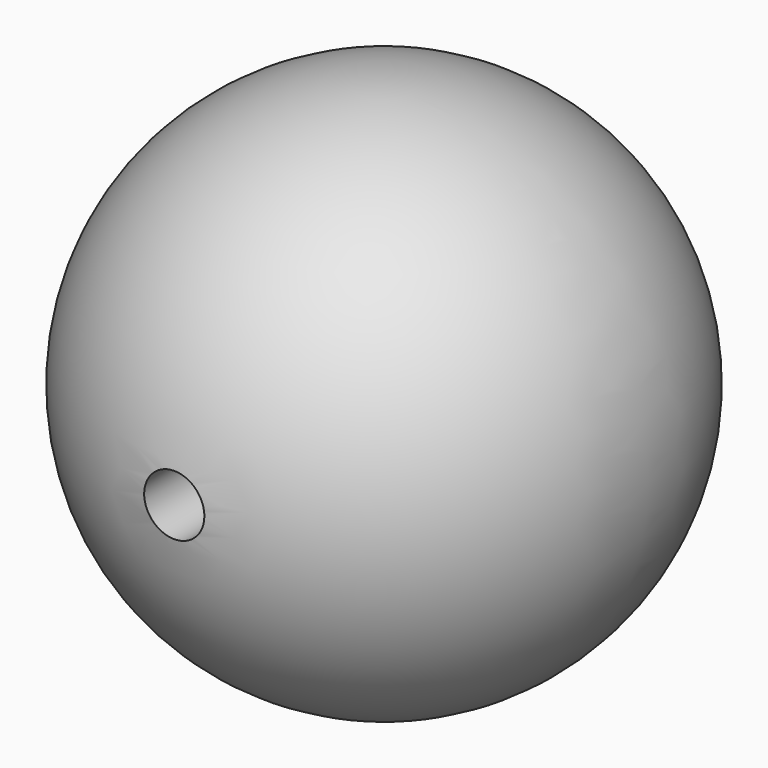
from build123d import *

# Parameters (mm, degrees)
F2_D     = 10
F2_DEPTH = 100
F2_TIP   = 3.0043030951


with BuildPart() as f1:
    # F0 (on Front) → F1 (revolve)
    with BuildSketch(Plane.XZ):
        with BuildLine():
            Line((0, 43.8479781151), (0, -43.8479781151))
            ThreePointArc((0, -43.8479781151), (43.8479781151, 0), (0, 43.8479781151))
        make_face()
    revolve(axis=Axis((0, 0, 0), (0, 0, 1)))

    # F2 (one way)
    with BuildSketch(Plane(origin=(0, 0, 0), x_dir=(1, 0, 0), z_dir=(0, 1, 0))):
        with Locations((0, 0)):
            Circle(F2_D / 2)
    extrude(amount=-F2_DEPTH, mode=Mode.SUBTRACT)
    with Locations(Plane(origin=(0, 0, 0), x_dir=(1, 0, 0), z_dir=(0, 1, 0))):
        with Locations((0, 0)):
            with Locations((0, 0, -(F2_DEPTH + F2_TIP / 2))):  # 118° drill point
                Cone(0, F2_D / 2, F2_TIP, mode=Mode.SUBTRACT)


solid = f1.part
